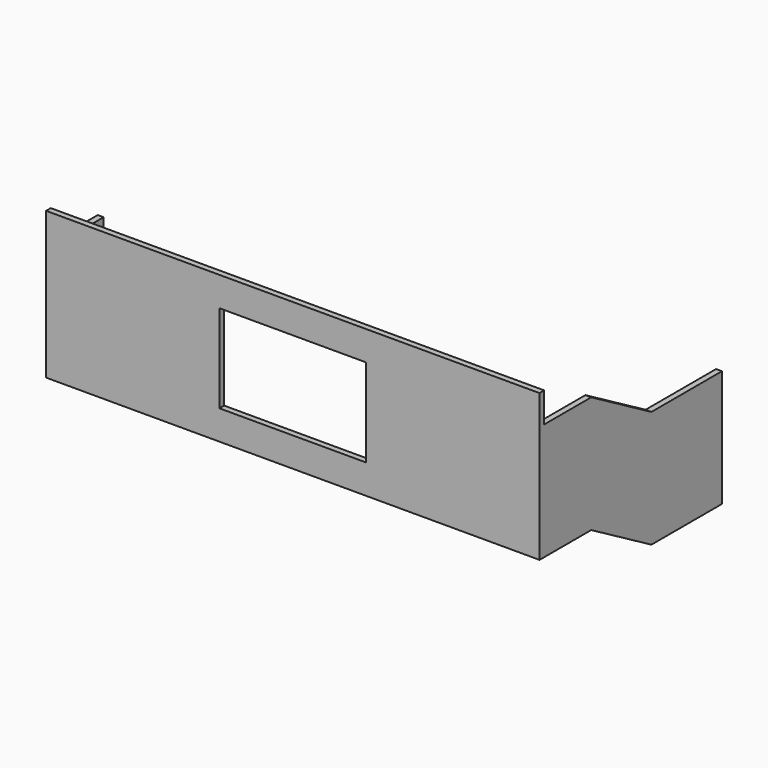
from build123d import *

# Parameters (mm, degrees)
F0_W     = 840
F0_H     = 250
F0_W_2   = 250
F0_H_2   = 150
F1_DEPTH = 10
F3_DEPTH = 100
F5_DEPTH = 10


with BuildPart() as f1:
    # F0 (on Front) → F1 (new body)
    with BuildSketch(Plane.XZ):
        Rectangle(F0_W, F0_H)
        Rectangle(F0_W_2, F0_H_2, mode=Mode.SUBTRACT)
    extrude(amount=F1_DEPTH)

    # F2 (on face) → F3 (join)
    with BuildSketch(Plane(origin=(0, 0, 0), x_dir=(-1, 0, 0), z_dir=(0, 1, 0))):
        Polygon((350, -115), (350, -125), (420, -125), (420, 73.963337), (410, 73.963337), (410, -115), align=None)
        Polygon((-410, -115), (-410, 73.963337), (-420, 73.963337), (-420, -125), (-350, -125), (-350, -115), align=None)
    extrude(amount=F3_DEPTH)

    # F4 (on face) → F5 (join)
    with BuildSketch(Plane.YZ.offset(420)):
        Polygon((228.108257, 0), (100, 73.963337), (100, -125), (228.108257, -198.963337), align=None)
        Polygon((378.108257, 0), (228.108257, 0), (228.108257, -198.963337), (378.108257, -198.963331), align=None)
    extrude(amount=-F5_DEPTH)


solid = f1.part
